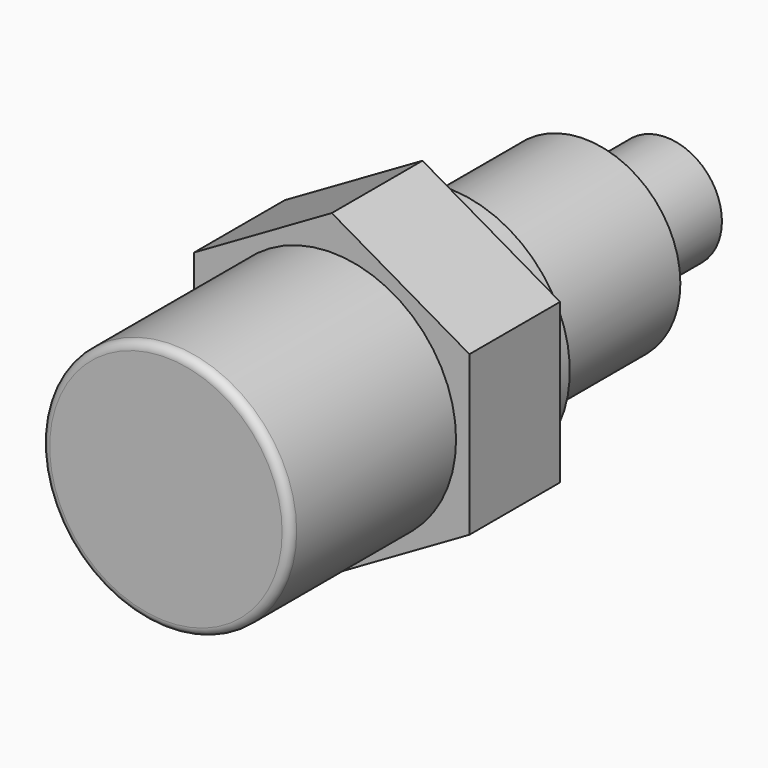
from build123d import *

# Parameters (mm, degrees)
F0_R      = 3.45
F1_DEPTH  = 6.3
F2_R      = 5.925
F3_DEPTH  = 12.5
F5_DEPTH  = 7
F6_R      = 7.675
F7_DEPTH  = 12.8
F8_R      = 0.5
F9_R      = 7.5
F9_R_2    = 6.107803
F10_DEPTH = 2


with BuildPart() as f1:
    # F0 (on Front) → F1 (new body)
    with BuildSketch(Plane.XZ):
        Circle(F0_R)
    extrude(amount=F1_DEPTH)

    # F2 (on face) → F3 (join)
    with BuildSketch(Plane.XZ.offset(6.3)):
        Circle(F2_R)
    extrude(amount=F3_DEPTH)

    # F4 (on face) → F5 (join)
    with BuildSketch(Plane.XZ.offset(18.8)):
        Polygon((0, 9.814955), (-8.5, 4.907477), (-8.5, -4.907477), (0, -9.814955), (8.5, -4.907477), (8.5, 4.907477), align=None)
    extrude(amount=F5_DEPTH)

    # F6 (on face) → F7 (join)
    with BuildSketch(Plane.XZ.offset(25.8)):
        Circle(F6_R)
    extrude(amount=F7_DEPTH)

    # F8
    f8_edges = [f1.edges().sort_by_distance(p)[0] for p in [
        (-7.675, -38.6, 0),
    ]]
    fillet(f8_edges, radius=F8_R)

    # F9 (on face) → F10 (join)
    with BuildSketch(Plane(origin=(0, -18.8, 0), x_dir=(-1, 0, 0), z_dir=(0, 1, 0))):
        Circle(F9_R)
        Circle(F9_R_2, mode=Mode.SUBTRACT)
    extrude(amount=F10_DEPTH)


solid = f1.part
